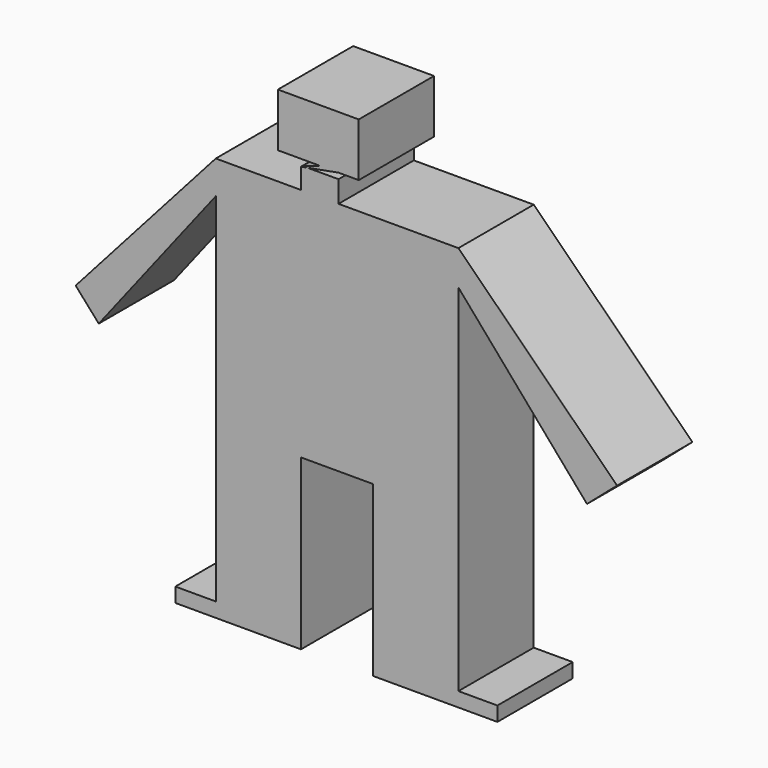
from build123d import *

# Parameters (mm, degrees)
F0_W     = 26.4462009072
F0_H     = 47.9617509991
F0_W_2   = 26.4461962506
F1_DEPTH = 3.81
F2_DEPTH = 25.4
F3_DEPTH = 25.4


with BuildPart() as f1:
    # F0 (on Front) → F1 (new body)
    with BuildSketch(Plane.XZ):
        Polygon((-60.5124868453, 42.3587411642), (-60.5124868453, -8.7406923994), (14.7919422016, -8.7406923994), (14.7919422016, 41.9104993343), (54.6853654087, -4.2582862079), (64.0228714011, 3.8100455422), (14.7919422016, 52.6682771742), (-5.8271270245, 52.6682771742), (-22.412031889, 52.6682771742), (-34.066285938, 52.6682771742), (-45.2723056078, 52.6682771742), (-60.5124868453, 52.6682771742), (-103.9918288589, 3.8100455422), (-96.8199819326, -4.2582862079), align=None)
        with Locations((-47.2893863916, -44.375824742)):
            Rectangle(F0_W, F0_H)
        with Locations((1.5688440762, -44.375824742)):
            Rectangle(F0_W_2, F0_H)
        Polygon((-60.5124868453, -8.7406923994), (-60.5124868453, -20.3949492425), (-34.066285938, -20.3949492425), (-11.6542540491, -20.3949492425), (14.7919422016, -20.3949492425), (14.7919422016, -8.7406923994), align=None)
        Polygon((14.7919422016, -68.3567002416), (-11.6542540491, -68.3567002416), (-11.6542540491, -72.8391036391), (6.7236125469, -72.8391036391), (26.8944427371, -72.8391036391), (26.8944427371, -68.3567002416), align=None)
        Polygon((-34.066285938, -68.3567002416), (-60.5124868453, -68.3567002416), (-73.0632245541, -68.3567002416), (-73.0632245541, -72.8391036391), (-52.8923943639, -72.8391036391), (-34.066285938, -72.8391036391), align=None)
        Polygon((-34.066285938, 59.0266520042), (-34.066285938, 52.6682771742), (-22.412031889, 52.6682771742), (-22.412031889, 59.3918859959), (-32.0940245688, 59.3918859959), align=None)
    extrude(amount=-F1_DEPTH)

    # F2 (add): a face of the model
    f2_faces = [f1.faces().sort_by_distance(p)[0] for p in [
        (-22.1011180392, 0, -1.8982815448),
    ]]


with BuildPart() as f1b:
    # F0 (on Front) → F1, piece 2 (new body)
    with BuildSketch(Plane.XZ):
        Polygon((-33.2594519109, 59.3918859959), (-32.0940245688, 59.3918859959), (-22.412031889, 61.1848495901), (-16.1366611719, 61.1848495901), (-16.1366611719, 77.7697563171), (-41.2381365895, 77.7697563171), (-41.2381365895, 61.1848495901), (-34.066285938, 61.1848495901), (-28.2391589135, 61.1848495901), align=None)
    extrude(amount=-F1_DEPTH)


with BuildPart() as f1_1:
    add(f1.part)

    add(f1b.part)  # F2 merges F1b
    extrude(f2_faces, amount=F2_DEPTH)

    # F3 (add): a face of the model
    f3_faces = [f1_1.faces().sort_by_distance(p)[0] for p in [
        (-28.6799367318, 0, 69.3439445937),
    ]]
    extrude(f3_faces, amount=F3_DEPTH)


solid = f1_1.part
